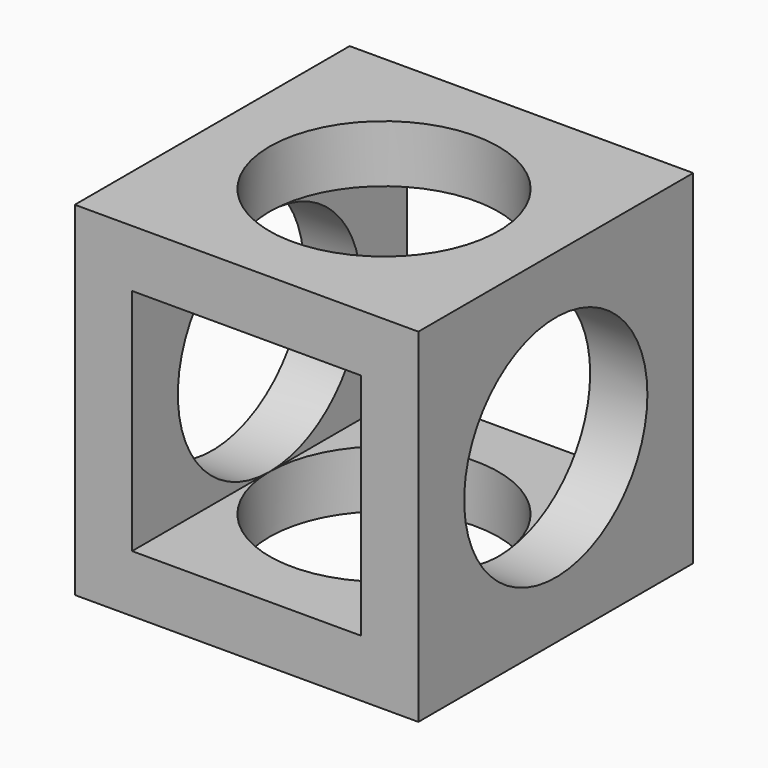
from build123d import *

# Parameters (mm, degrees)
F0_W     = 30
F0_H     = 30
F1_DEPTH = 30
F3_D     = 20
F5_D     = 20
F6_W     = 20
F6_H     = 20
F7_DEPTH = 30


with BuildPart() as f1:
    # F0 (on Top) → F1 (new body)
    with BuildSketch(Plane.XY):
        Rectangle(F0_W, F0_H)
    extrude(amount=F1_DEPTH)

    # F3 (through all)
    with Locations(Plane(origin=(0, 0, 0), x_dir=(1, 0, 0), z_dir=(0, 0, -1))):
        with Locations((0, 0)):
            Hole(F3_D / 2)

    # F5 (through all)
    with Locations(Plane(origin=(-15, 0, 0), x_dir=(0, -1, 0), z_dir=(-1, 0, 0))):
        with Locations((0, 15)):
            Hole(F5_D / 2)

    # F6 (on face) → F7 (cut)
    with BuildSketch(Plane.XZ.offset(15)):
        with Locations((0, 15)):
            Rectangle(F6_W, F6_H)
    extrude(amount=-F7_DEPTH, mode=Mode.SUBTRACT)


solid = f1.part
